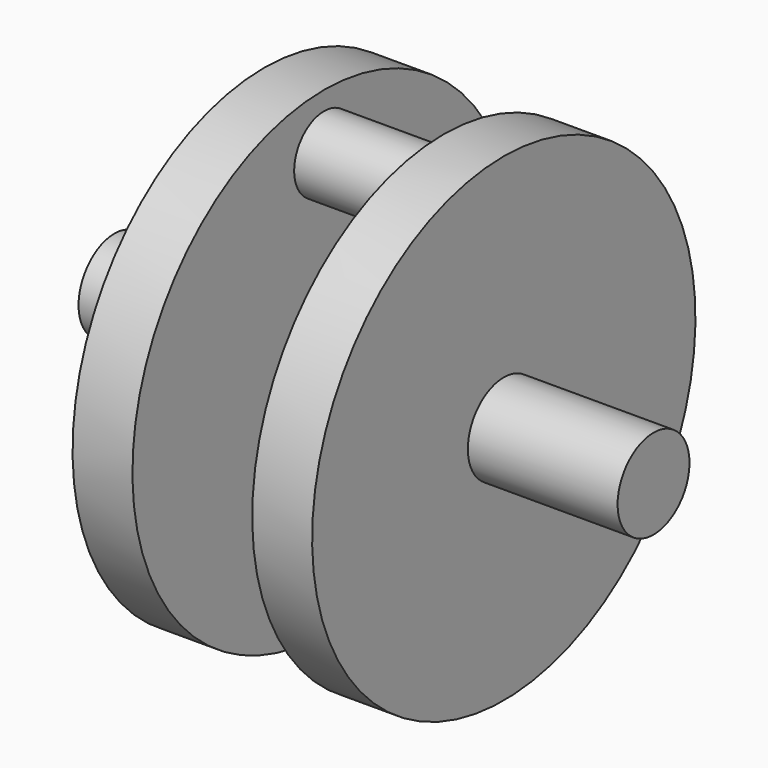
from build123d import *

# Parameters (mm, degrees)
F0_W = 31.75
F0_H = 9.525
F2_W = 25.4
F2_H = 7.9375


with BuildPart() as f1:
    # F0 (on Front) → F1 (revolve)
    with BuildSketch(Plane.XZ):
        with Locations((-41.275, 4.7625)):
            Rectangle(F0_W, F0_H)
        Polygon((-25.4, 9.525), (-25.4, 0), (-12.7, 0), (-12.7, 38.89375), (-12.7, 46.83125), (-12.7, 50.8), (-25.4, 50.8), align=None)
    revolve(axis=Axis((-41.275, 0, 0), (-1, 0, 0)))



with BuildPart() as f1b:
    # F0 (on Front) → F1, piece 2 (revolve)
    with BuildSketch(Plane.XZ):
        Polygon((12.7, 46.83125), (12.7, 38.89375), (12.7, 0), (25.4, 0), (25.4, 9.525), (25.4, 50.8), (12.7, 50.8), align=None)
        with Locations((41.275, 4.7625)):
            Rectangle(F0_W, F0_H)
    revolve(axis=Axis((-41.275, 0, 0), (-1, 0, 0)))


with BuildPart() as f1_1:
    add(f1.part)

    add(f1b.part)  # F3 merges F1b
    # F2 (on Front) → F3 (revolve)
    with BuildSketch(Plane.XZ):
        with Locations((0, 42.8625)):
            Rectangle(F2_W, F2_H)
    revolve(axis=Axis((0, 0, 38.89375), (1, 0, 0)))


solid = f1_1.part
